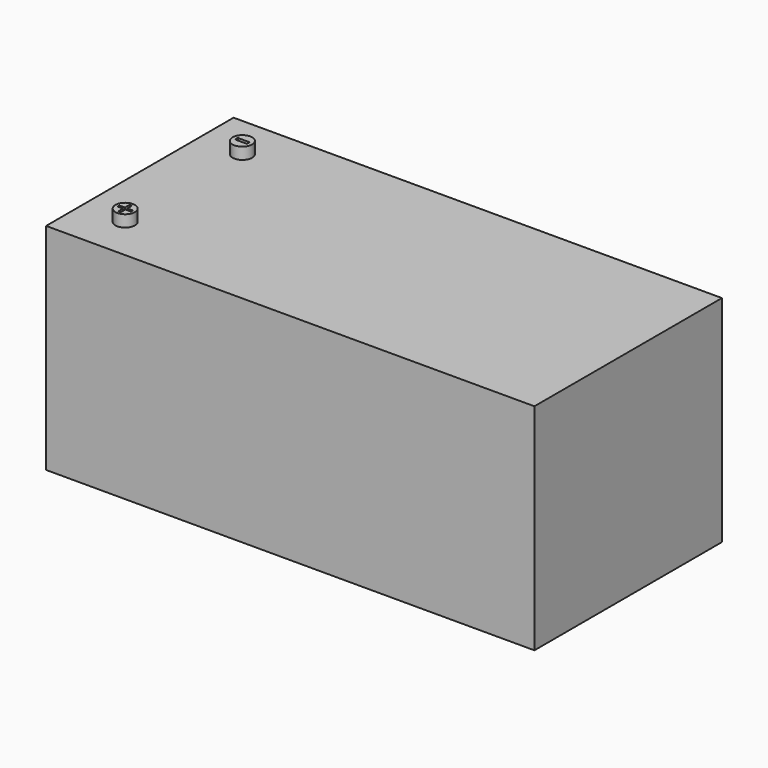
from build123d import *

# Parameters (mm, degrees)
F0_W     = 500
F0_H     = 240
F1_DEPTH = 220
F2_R     = 10
F3_DEPTH = 12
F4_W     = 12.269224124
F4_H     = 3.53
F4_W_2   = 5.75
F4_H_2   = 2.5
F4_W_3   = 2.5
F4_H_3   = 5.75
F5_DEPTH = 3


with BuildPart() as f1:
    # F0 (on Top) → F1 (new body)
    with BuildSketch(Plane.XY):
        with Locations((1.3003092026, 0)):
            Rectangle(F0_W, F0_H)
    extrude(amount=F1_DEPTH)

    # F2 (on face) → F3 (join)
    with BuildSketch(Plane.XY.offset(220)):
        with Locations((-203.6996907974, 75)):
            Circle(F2_R)
        with Locations((-203.6996907974, -75)):
            Circle(F2_R)
    extrude(amount=F3_DEPTH)

    # F4 (on face) → F5 (cut)
    with BuildSketch(Plane.XY.offset(232)):
        with Locations((-203.6996907974, 75)):
            Rectangle(F4_W, F4_H)
        with Locations((-207.8246907974, -75)):
            Rectangle(F4_W_2, F4_H_2)
        with Locations((-203.6996907974, -75)):
            Rectangle(F4_W_3, F4_H_2)
        with Locations((-199.5746907974, -75)):
            Rectangle(F4_W_2, F4_H_2)
        with Locations((-203.6996907974, -70.875)):
            Rectangle(F4_W_3, F4_H_3)
        with Locations((-203.6996907974, -79.125)):
            Rectangle(F4_W_3, F4_H_3)
    extrude(amount=-F5_DEPTH, mode=Mode.SUBTRACT)


solid = f1.part
